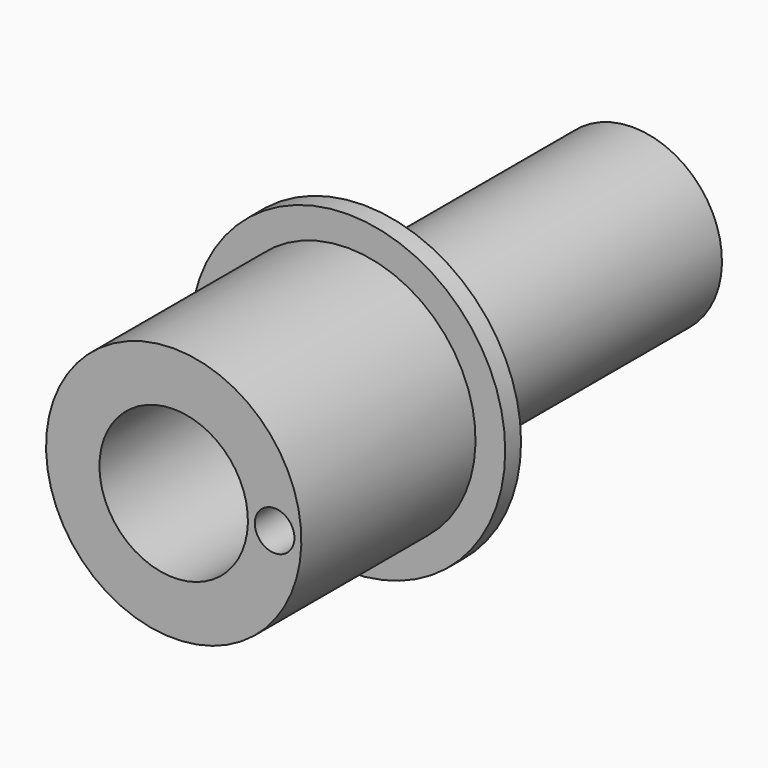
from build123d import *

# Parameters (mm, degrees)
F2_R     = 1
F3_DEPTH = 5


with BuildPart() as f1:
    # F0 (on Right) → F1 (revolve)
    with BuildSketch(Plane.YZ):
        Polygon((0, 3.75), (29, 3.75), (29, 4.5), (12, 4.5), (12, 7.95), (11, 7.95), (11, 6.45), (0, 6.45), align=None)
    revolve(axis=Axis((0, 14.5, 0), (0, -1, 0)))

    # F2 (on face) → F3 (cut)
    with BuildSketch(Plane.XZ):
        with Locations((5.1, 0)):
            Circle(F2_R)
    extrude(amount=-F3_DEPTH, mode=Mode.SUBTRACT)


solid = f1.part
